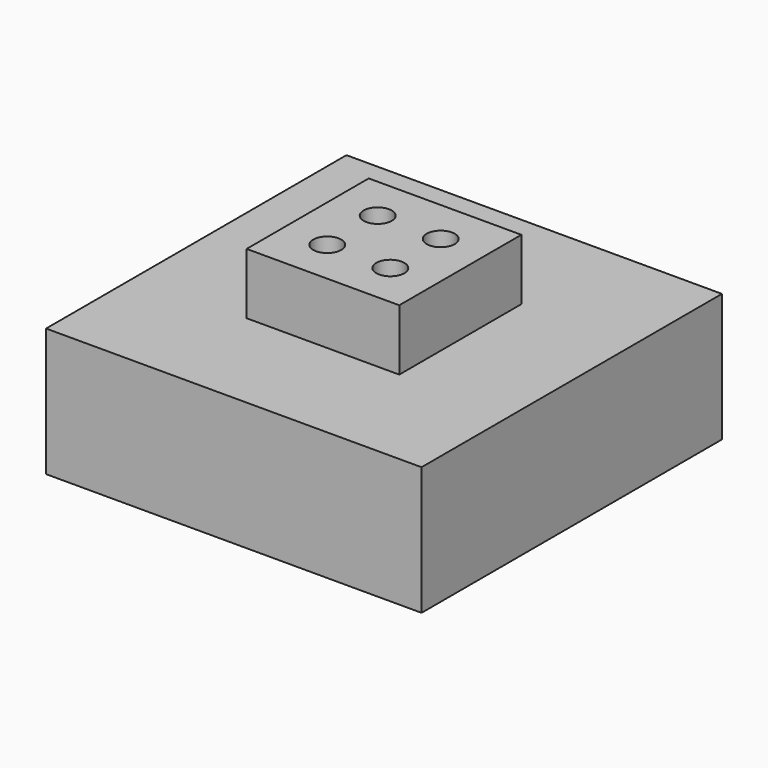
from build123d import *

# Parameters (mm, degrees)
SKETCH_W      = 61.5
SKETCH_H      = 61.5
PAD_DEPTH     = 2
SKETCH001_W   = 61.5
SKETCH001_H   = 61.5
SKETCH001_W_2 = 57.9
SKETCH001_H_2 = 57.9
PAD001_DEPTH  = 19
SKETCH002_W   = 25
SKETCH002_H   = 25
PAD002_DEPTH  = 10
SKETCH003_R   = 2.3
POCKET_DEPTH  = 31.001


with BuildPart() as part:
    # Sketch → Pad (new body)
    with BuildSketch(Plane.XY):
        Rectangle(SKETCH_W, SKETCH_H)
    extrude(amount=PAD_DEPTH)

    # Sketch001 → Pad001 (new body)
    with BuildSketch(Plane(origin=(0, 0, 0), x_dir=(1, 0, 0), z_dir=(0, 0, -1))):
        Rectangle(SKETCH001_W, SKETCH001_H)
        Rectangle(SKETCH001_W_2, SKETCH001_H_2, mode=Mode.SUBTRACT)
    extrude(amount=PAD001_DEPTH)

    # Sketch002 → Pad002 (new body)
    with BuildSketch(Plane.XY.offset(2)):
        Rectangle(SKETCH002_W, SKETCH002_H)
    extrude(amount=PAD002_DEPTH)

    # Sketch003 → Pocket (cut, through all)
    with BuildSketch(Plane.XY.offset(12)):
        with Locations((-5.16188, 5.16188)):
            Circle(SKETCH003_R)
        with Locations((5.16188, -5.16188)):
            Circle(SKETCH003_R)
        with Locations((5.16188, 5.16188)):
            Circle(SKETCH003_R)
        with Locations((-5.16188, -5.16188)):
            Circle(SKETCH003_R)
    extrude(amount=-POCKET_DEPTH, mode=Mode.SUBTRACT)


solid = part.part
